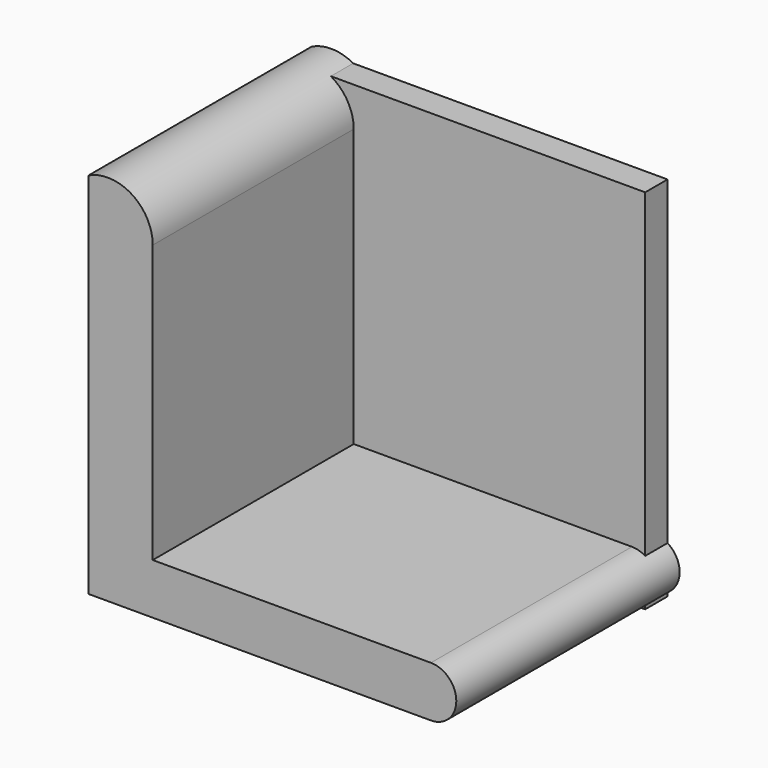
from build123d import *

# Parameters (mm, degrees)
F1_DEPTH = 50.8
F2_W     = 64.513084
F2_H     = 66.808922
F3_DEPTH = 5.08


with BuildPart() as f1:
    # F0 (on Front) → F1 (new body)
    with BuildSketch(Plane.XZ):
        with BuildLine():
            ThreePointArc((-39.832812, 33.289671), (-43.655486, 40.201062), (-51.541593, 40.636353))
            Line((-51.541593, 40.636353), (-51.541593, -26.402151))
            Line((-51.541593, -26.402151), (-39.832812, -26.402151))
            Line((-39.832812, -26.402151), (-39.832812, -17.163772))
            Line((-39.832812, -17.163772), (-39.832812, 33.289671))
        make_face()
        with BuildLine():
            Line((-39.832812, -17.163772), (-39.832812, -26.402151))
            Line((-39.832812, -26.402151), (10.788094, -26.402151))
            ThreePointArc((10.788094, -26.402151), (15.407284, -21.782962), (10.788094, -17.163772))
            Line((10.788094, -17.163772), (-39.832812, -17.163772))
        make_face()
    extrude(amount=F1_DEPTH)

    # F2 (on Front) → F3 (join)
    with BuildSketch(Plane.XZ):
        with Locations((-19.055465, 7.00231)):
            Rectangle(F2_W, F2_H)
    extrude(amount=F3_DEPTH)


solid = f1.part
